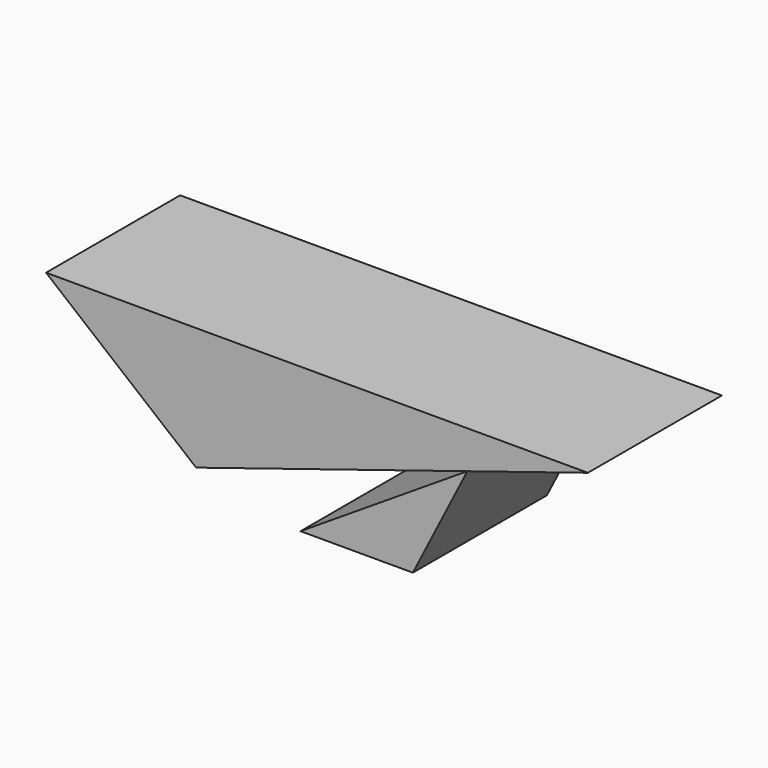
from build123d import *

# Parameters (mm, degrees)
F1_DEPTH = 25.4


with BuildPart() as f1:
    # F0 (on Front) → F1 (new body)
    with BuildSketch(Plane.XZ):
        Polygon((20.992527, 33.915367), (29.251767, 50.147469), (3.959132, 33.915367), align=None)
        Polygon((47.531322, 55.878125), (-34.621537, 55.878125), (-11.880301, 37.25253), (29.251767, 50.147469), align=None)
    extrude(amount=F1_DEPTH)


solid = f1.part
